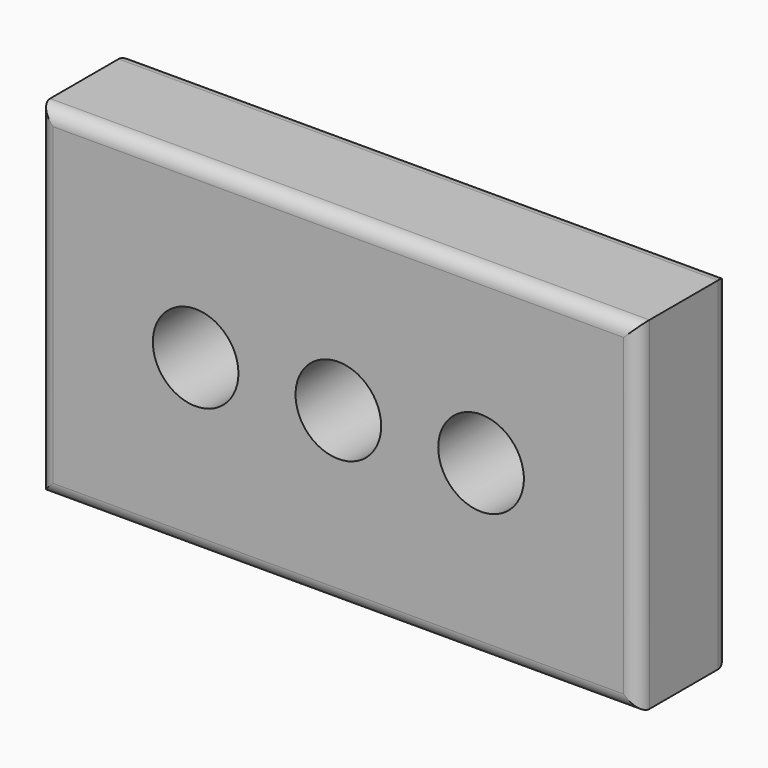
from build123d import *

# Parameters (mm, degrees)
F0_W     = 105
F0_H     = 60
F1_DEPTH = 20
F2_R     = 7.5
F3_DEPTH = 15
F4_R     = 2.5


with BuildPart() as f1:
    # F0 (on Front) → F1 (new body)
    with BuildSketch(Plane.XZ):
        Rectangle(F0_W, F0_H)
    extrude(amount=F1_DEPTH)

    # F2 (on face) → F3 (cut)
    with BuildSketch(Plane.XZ.offset(20)):
        with BuildLine():
            ThreePointArc((-7.5, 0), (0, -7.5), (7.5, 0))
            ThreePointArc((7.5, 0), (0, 7.5), (-7.5, 0))
        make_face()
        with Locations((-25, 0)):
            Circle(F2_R)
        with BuildLine():
            ThreePointArc((32.5, 0), (25, 7.5), (17.5, 0))
            ThreePointArc((17.5, 0), (25, -7.5), (32.5, 0))
        make_face()
    extrude(amount=-F3_DEPTH, mode=Mode.SUBTRACT)

    # F4
    f4_edges = [f1.edges().sort_by_distance(p)[0] for p in [
        (-52.5, -20, 0),
        (0, -20, -30),
        (52.5, -20, 0),
        (0, -20, 30),
        (-52.5, 0, 0),
        (0, 0, 30),
        (52.5, 0, 0),
        (0, 0, -30),
    ]]
    fillet(f4_edges, radius=F4_R)


solid = f1.part
